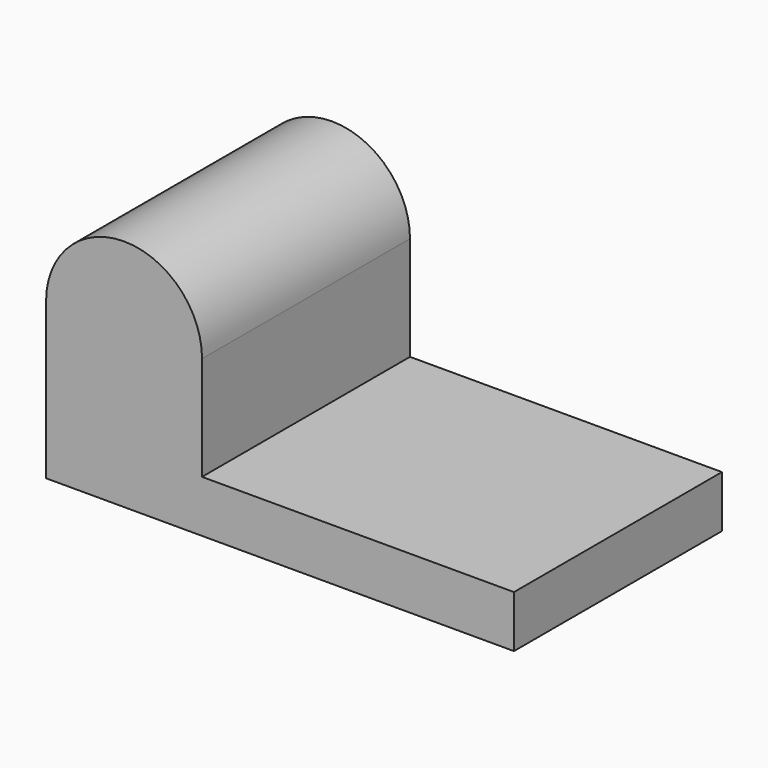
from build123d import *

# Parameters (mm, degrees)
F1_DEPTH = 635


with BuildPart() as f1:
    # F0 (on Front) → F1 (new body, symmetric)
    with BuildSketch(Plane.XZ):
        with BuildLine():
            Line((-762, 0), (0, 0))
            Line((0, 0), (1524, 0))
            Line((1524, 0), (1524, 254))
            Line((1524, 254), (0, 254))
            Line((0, 254), (0, 762))
            ThreePointArc((0, 762), (-381, 1143), (-762, 762))
            Line((-762, 762), (-762, 254))
            Line((-762, 254), (-762, 0))
        make_face()
    extrude(amount=F1_DEPTH, both=True)


solid = f1.part
